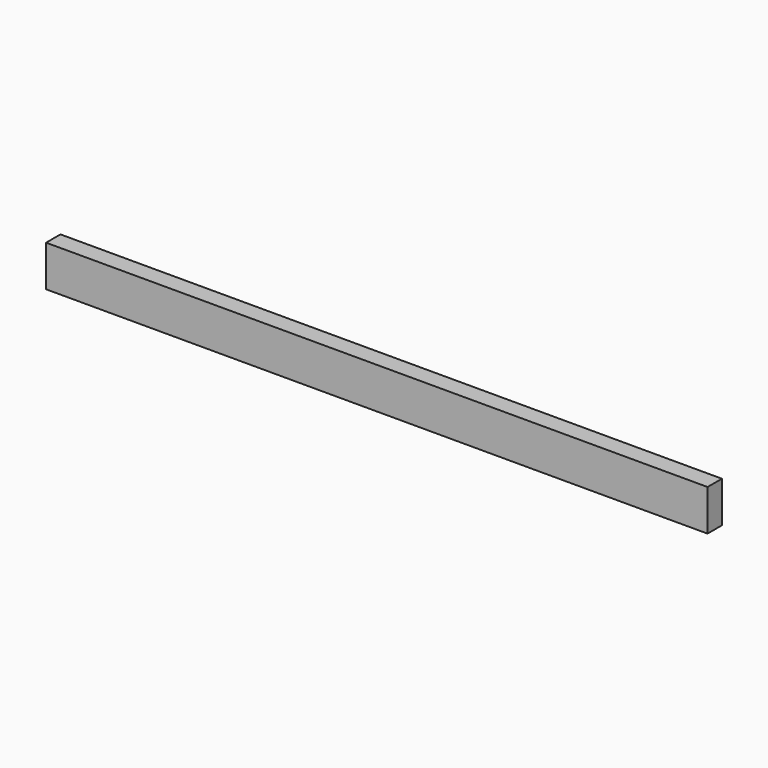
from build123d import *

# Parameters (mm, degrees)
F0_W      = 122.221291
F0_H      = 3.319118
F1_DEPTH  = 25.4
F1_FACE_W = 122.221292
F1_FACE_H = 3.319118
F3_DEPTH  = 17.81513


with BuildPart() as f1:
    # F0 (on Top) → F1 (new body)
    with BuildSketch(Plane.XY):
        with Locations((-7.834464, 20.110922)):
            Rectangle(F0_W, F0_H)
    extrude(amount=F1_DEPTH)

    # F1_face (on face) → F3 (cut)
    with BuildSketch(Plane(origin=(-7.834464, 20.110922, 25.4), x_dir=(1, 0, 0), z_dir=(0, 0, 1))):
        Rectangle(F1_FACE_W, F1_FACE_H)
    extrude(amount=-F3_DEPTH, mode=Mode.SUBTRACT)


solid = f1.part
